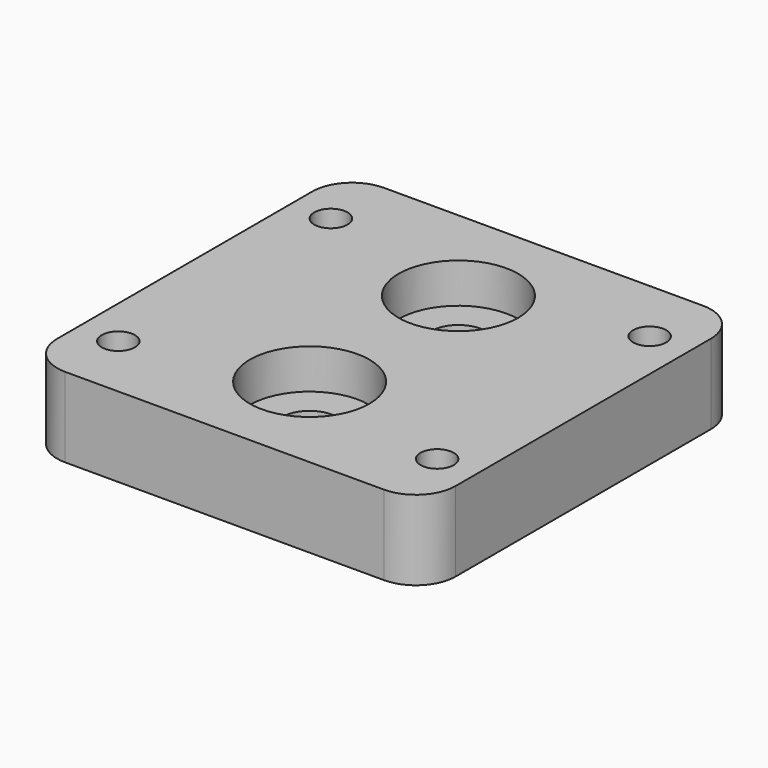
from build123d import *

# Parameters (mm, degrees)
F0_W     = 30
F0_H     = 30
F0_R     = 1.25
F0_R_2   = 2.05
F1_DEPTH = 6
F2_R     = 4.5
F3_DEPTH = 3
F4_R     = 3


with BuildPart() as f1:
    # F0 (on Top) → F1 (new body)
    with BuildSketch(Plane.XY):
        Rectangle(F0_W, F0_H)
        with Locations((-12, -10)):
            Circle(F0_R, mode=Mode.SUBTRACT)
        with Locations((12, -10)):
            Circle(F0_R, mode=Mode.SUBTRACT)
        with Locations((0, -7)):
            Circle(F0_R_2, mode=Mode.SUBTRACT)
        with Locations((-12, 10)):
            Circle(F0_R, mode=Mode.SUBTRACT)
        with Locations((0, 7)):
            Circle(F0_R_2, mode=Mode.SUBTRACT)
        with Locations((12, 10)):
            Circle(F0_R, mode=Mode.SUBTRACT)
    extrude(amount=F1_DEPTH)

    # F2 (on face) → F3 (cut)
    with BuildSketch(Plane.XY.offset(6)):
        with Locations((0, 7)):
            Circle(F2_R)
        with Locations((0, -7)):
            Circle(F2_R)
    extrude(amount=-F3_DEPTH, mode=Mode.SUBTRACT)

    # F4
    f4_edges = [f1.edges().sort_by_distance(p)[0] for p in [
        (15, -15, 3),
        (15, 15, 3),
        (-15, -15, 3),
        (-15, 15, 3),
    ]]
    fillet(f4_edges, radius=F4_R)


solid = f1.part
